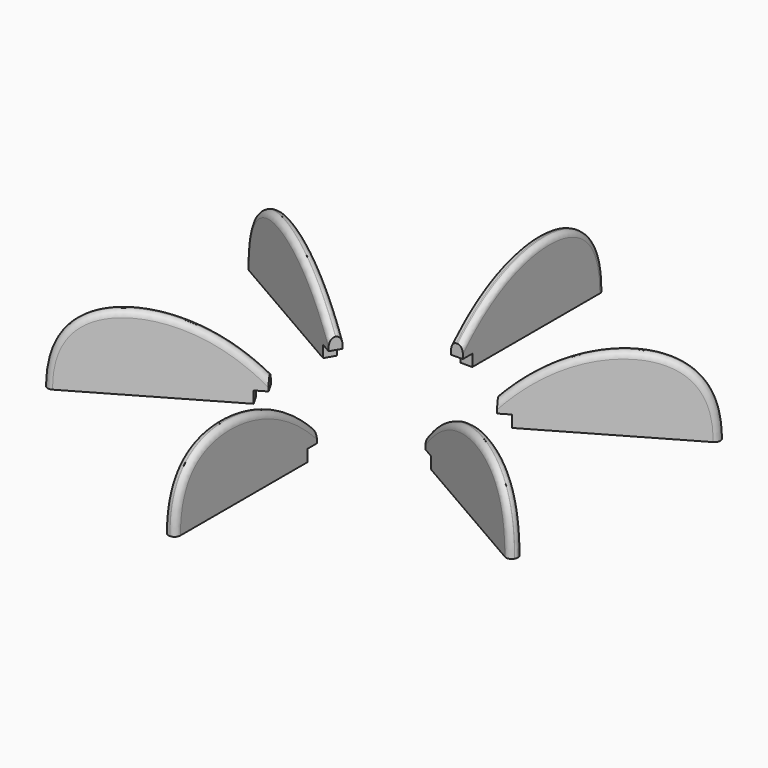
from build123d import *

# Parameters (mm, degrees)
EXTRUDE_DEPTH              = 2
FILLET_R                   = 0.9
EXTRUDE001_DEPTH           = 2
EXTRUDE001_PLACEMENT_ANGLE = 180
FILLET001_R                = 0.99
EXTRUDE002_DEPTH           = 2
EXTRUDE002_PLACEMENT_ANGLE = 60
FILLET002_R                = 0.99
EXTRUDE003_DEPTH           = 2
EXTRUDE003_PLACEMENT_ANGLE = 120
FILLET003_R                = 0.99
EXTRUDE004_DEPTH           = 2
EXTRUDE004_PLACEMENT_ANGLE = -60
FILLET004_R                = 0.99
EXTRUDE005_DEPTH           = 2
EXTRUDE005_PLACEMENT_ANGLE = 120
FILLET005_R                = 0.99


with BuildPart() as blade1_fillet:
    # Face → Extrude (new body)
    with BuildSketch(Plane(origin=(1, 35.924369, 9.367036), x_dir=(0, 1, 0), z_dir=(-1, 0, 0))):
        with BuildLine():
            Line((-15.924369, 3.367036), (-15.924369, 1.367036))
            add(Edge.make_bspline(
                [(14.075631, 5.367036), (14.075631, -8.632964), (4.075631, -8.632964), (-5.924369, -8.632964), (-15.924369, 1.367036)],
                knots=[0, 0, 0, 0, 0, 1, 1, 1, 1, 1], degree=4))
            Line((14.075631, 5.367036), (-13.924369, 5.367036))
            Line((-13.924369, 5.367036), (-13.924369, 3.367036))
            Line((-13.924369, 3.367036), (-15.924369, 3.367036))
        make_face()
    extrude(amount=EXTRUDE_DEPTH)


with BuildPart() as blade1_fillet_1:
    # Extrude placement: moved
    add(blade1_fillet.part.moved(Location((0, -4.5, 0))))

    # Fillet
    fillet_edges = [blade1_fillet_1.edges().sort_by_distance(p)[0] for p in [
        (-1, 33.24871, 16.516965),
        (1, 33.24871, 16.516965),
    ]]
    fillet(fillet_edges, radius=FILLET_R)


with BuildPart() as blade4_fillet:
    # Face001 → Extrude001 (new body)
    with BuildSketch(Plane(origin=(1, 35.924369, 9.367036), x_dir=(0, 1, 0), z_dir=(-1, 0, 0))):
        with BuildLine():
            Line((-15.924369, 3.367036), (-15.924369, 1.367036))
            add(Edge.make_bspline(
                [(14.075631, 5.367036), (14.075631, -8.632964), (4.075631, -8.632964), (-5.924369, -8.632964), (-15.924369, 1.367036)],
                knots=[0, 0, 0, 0, 0, 1, 1, 1, 1, 1], degree=4))
            Line((14.075631, 5.367036), (-13.924369, 5.367036))
            Line((-13.924369, 5.367036), (-13.924369, 3.367036))
            Line((-13.924369, 3.367036), (-15.924369, 3.367036))
        make_face()
    extrude(amount=EXTRUDE001_DEPTH)


with BuildPart() as blade4_fillet_1:
    # Extrude001 placement: moved
    add(blade4_fillet.part.moved(Location((0, 4.5, 0))).rotate(Axis((0, 4.5, 0), (0, 0, 1)), EXTRUDE001_PLACEMENT_ANGLE))

    # Fillet001
    fillet001_edges = [blade4_fillet_1.edges().sort_by_distance(p)[0] for p in [
        (1, -33.24871, 16.516965),
        (-1, -33.24871, 16.516965),
    ]]
    fillet(fillet001_edges, radius=FILLET001_R)


with BuildPart() as blade6_fillet:
    # Face002 → Extrude002 (new body)
    with BuildSketch(Plane(origin=(1, 35.924369, 9.367036), x_dir=(0, 1, 0), z_dir=(-1, 0, 0))):
        with BuildLine():
            Line((-15.924369, 3.367036), (-15.924369, 1.367036))
            add(Edge.make_bspline(
                [(14.075631, 5.367036), (14.075631, -8.632964), (4.075631, -8.632964), (-5.924369, -8.632964), (-15.924369, 1.367036)],
                knots=[0, 0, 0, 0, 0, 1, 1, 1, 1, 1], degree=4))
            Line((14.075631, 5.367036), (-13.924369, 5.367036))
            Line((-13.924369, 5.367036), (-13.924369, 3.367036))
            Line((-13.924369, 3.367036), (-15.924369, 3.367036))
        make_face()
    extrude(amount=EXTRUDE002_DEPTH)


with BuildPart() as blade6_fillet_1:
    # Extrude002 placement: moved
    add(blade6_fillet.part.moved(Location((3.5, -3, 0))).rotate(Axis((3.5, -3, 0), (0, 0, 1)), EXTRUDE002_PLACEMENT_ANGLE))

    # Fillet002
    fillet002_edges = [blade6_fillet_1.edges().sort_by_distance(p)[0] for p in [
        (-29.691342, 15.00833, 16.516965),
        (-28.691342, 16.74038, 16.516965),
    ]]
    fillet(fillet002_edges, radius=FILLET002_R)


with BuildPart() as blade5_fillet:
    # Face003 → Extrude003 (new body)
    with BuildSketch(Plane(origin=(1, 35.924369, 9.367036), x_dir=(0, 1, 0), z_dir=(-1, 0, 0))):
        with BuildLine():
            Line((-15.924369, 3.367036), (-15.924369, 1.367036))
            add(Edge.make_bspline(
                [(14.075631, 5.367036), (14.075631, -8.632964), (4.075631, -8.632964), (-5.924369, -8.632964), (-15.924369, 1.367036)],
                knots=[0, 0, 0, 0, 0, 1, 1, 1, 1, 1], degree=4))
            Line((14.075631, 5.367036), (-13.924369, 5.367036))
            Line((-13.924369, 5.367036), (-13.924369, 3.367036))
            Line((-13.924369, 3.367036), (-15.924369, 3.367036))
        make_face()
    extrude(amount=EXTRUDE003_DEPTH)


with BuildPart() as blade5_fillet_1:
    # Extrude003 placement: moved
    add(blade5_fillet.part.moved(Location((3.5, 3, 0))).rotate(Axis((3.5, 3, 0), (0, 0, 1)), EXTRUDE003_PLACEMENT_ANGLE))

    # Fillet003
    fillet003_edges = [blade5_fillet_1.edges().sort_by_distance(p)[0] for p in [
        (-28.691342, -16.74038, 16.516965),
        (-29.691342, -15.00833, 16.516965),
    ]]
    fillet(fillet003_edges, radius=FILLET003_R)


with BuildPart() as blade2_fillet:
    # Face004 → Extrude004 (new body)
    with BuildSketch(Plane(origin=(1, 35.924369, 9.367036), x_dir=(0, 1, 0), z_dir=(-1, 0, 0))):
        with BuildLine():
            Line((-15.924369, 3.367036), (-15.924369, 1.367036))
            add(Edge.make_bspline(
                [(14.075631, 5.367036), (14.075631, -8.632964), (4.075631, -8.632964), (-5.924369, -8.632964), (-15.924369, 1.367036)],
                knots=[0, 0, 0, 0, 0, 1, 1, 1, 1, 1], degree=4))
            Line((14.075631, 5.367036), (-13.924369, 5.367036))
            Line((-13.924369, 5.367036), (-13.924369, 3.367036))
            Line((-13.924369, 3.367036), (-15.924369, 3.367036))
        make_face()
    extrude(amount=EXTRUDE004_DEPTH)


with BuildPart() as blade2_fillet_1:
    # Extrude004 placement: moved
    add(blade2_fillet.part.moved(Location((-3.5, -3, 0))).rotate(Axis((-3.5, -3, 0), (0, 0, 1)), EXTRUDE004_PLACEMENT_ANGLE))

    # Fillet004
    fillet004_edges = [blade2_fillet_1.edges().sort_by_distance(p)[0] for p in [
        (28.691342, 16.74038, 16.516965),
        (29.691342, 15.00833, 16.516965),
    ]]
    fillet(fillet004_edges, radius=FILLET004_R)


with BuildPart() as blade3_fillet:
    # Face005 → Extrude005 (new body)
    with BuildSketch(Plane(origin=(1, 35.924369, 9.367036), x_dir=(0, 1, 0), z_dir=(-1, 0, 0))):
        with BuildLine():
            Line((-15.924369, 3.367036), (-15.924369, 1.367036))
            add(Edge.make_bspline(
                [(14.075631, 5.367036), (14.075631, -8.632964), (4.075631, -8.632964), (-5.924369, -8.632964), (-15.924369, 1.367036)],
                knots=[0, 0, 0, 0, 0, 1, 1, 1, 1, 1], degree=4))
            Line((14.075631, 5.367036), (-13.924369, 5.367036))
            Line((-13.924369, 5.367036), (-13.924369, 3.367036))
            Line((-13.924369, 3.367036), (-15.924369, 3.367036))
        make_face()
    extrude(amount=EXTRUDE005_DEPTH)


with BuildPart() as blade3_fillet_1:
    # Extrude005 placement: moved
    add(blade3_fillet.part.moved(Location((-3.5, 3, 0))).rotate(Axis((-3.5, 3, 0), (0, 0, -1)), EXTRUDE005_PLACEMENT_ANGLE))

    # Fillet005
    fillet005_edges = [blade3_fillet_1.edges().sort_by_distance(p)[0] for p in [
        (29.691342, -15.00833, 16.516965),
        (28.691342, -16.74038, 16.516965),
    ]]
    fillet(fillet005_edges, radius=FILLET005_R)


solid = Compound([blade1_fillet_1.part, blade4_fillet_1.part, blade6_fillet_1.part, blade5_fillet_1.part, blade2_fillet_1.part, blade3_fillet_1.part])
